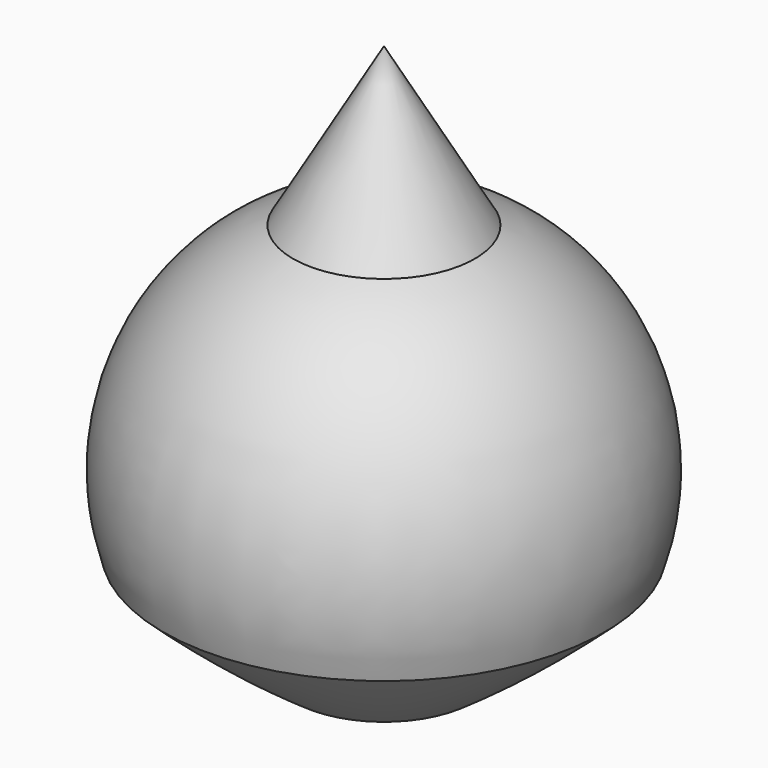
from build123d import *


with BuildPart() as f1:
    # F0 (on Front) → F1 (revolve)
    with BuildSketch(Plane.XZ):
        with BuildLine():
            Line((0, 74.014986), (-12.3, 52.710761))
            ThreePointArc((-12.3, 52.710761), (-28.551928, 36.740164), (-29.845832, 13.991297))
            ThreePointArc((-29.845832, 13.991297), (-21.307755, 6.701147), (-12.3, 0))
            Line((-12.3, 0), (-11.5, 0))
            Line((-11.5, 0), (-11.5, 52.496402))
            Line((-11.5, 52.496402), (0, 72.414986))
            Line((0, 72.414986), (0, 74.014986))
        make_face()
    revolve(axis=Axis((0, 0, 73.214986), (0, 0, -1)))


solid = f1.part
